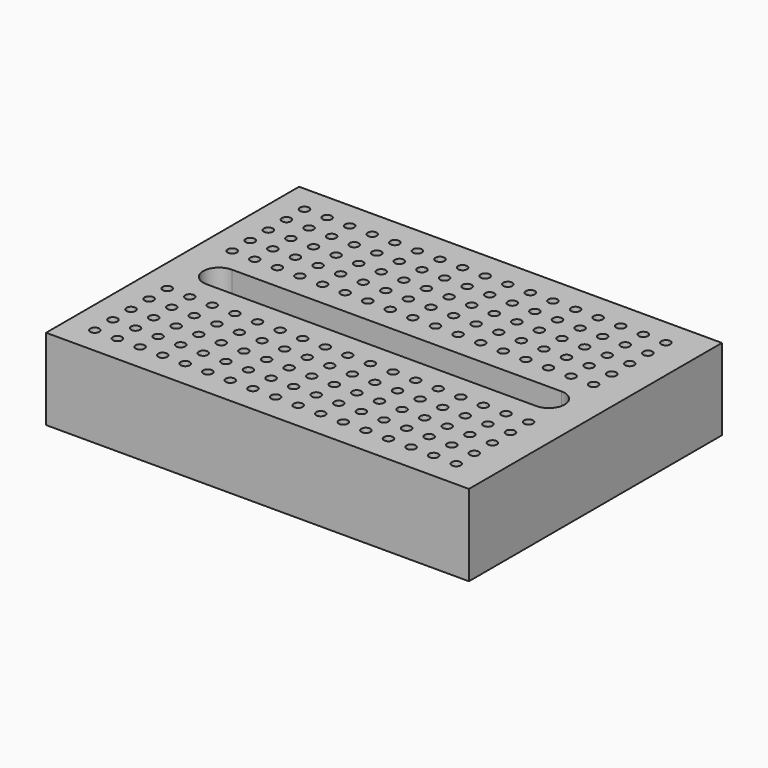
from build123d import *

# Parameters (mm, degrees)
F0_W     = 46.8
F0_H     = 35
F1_DEPTH = 9
F2_R     = 0.5
F3_DEPTH = 5


with BuildPart() as f1:
    # F0 (on Top) → F1 (new body)
    with BuildSketch(Plane.XY):
        Rectangle(F0_W, F0_H)
    extrude(amount=F1_DEPTH)

    # F2 (on face) → F3 (cut)
    with BuildSketch(Plane.XY.offset(9)):
        with BuildLine():
            ThreePointArc((18.25, -1.75), (16.5, 0), (18.25, 1.75))
            Line((18.25, 1.75), (-18.25, 1.75))
            ThreePointArc((-18.25, 1.75), (-17.0125631329, 1.2374368671), (-16.5, 0))
            ThreePointArc((-16.5, 0), (-17.0125631329, -1.2374368671), (-18.25, -1.75))
            Line((-18.25, -1.75), (18.25, -1.75))
        make_face()
        with BuildLine():
            ThreePointArc((20, 0), (19.4874368671, 1.2374368671), (18.25, 1.75))
            Line((18.25, 1.75), (18.25, -1.75))
            ThreePointArc((18.25, -1.75), (19.4874368671, -1.2374368671), (20, 0))
        make_face()
        with BuildLine():
            Line((18.25, -1.75), (18.25, 1.75))
            ThreePointArc((18.25, 1.75), (16.5, 0), (18.25, -1.75))
        make_face()
        with BuildLine():
            ThreePointArc((-16.5, 0), (-17.0125631329, 1.2374368671), (-18.25, 1.75))
            Line((-18.25, 1.75), (-18.25, -1.75))
            ThreePointArc((-18.25, -1.75), (-17.0125631329, -1.2374368671), (-16.5, 0))
        make_face()
        with BuildLine():
            Line((-18.25, -1.75), (-18.25, 1.75))
            ThreePointArc((-18.25, 1.75), (-20, 0), (-18.25, -1.75))
        make_face()
        with Locations((-20.4, 14.5)):
            Circle(F2_R)
        with Locations((-20.4, -14.5)):
            Circle(F2_R)
        with Locations((-20.4, -12)):
            Circle(F2_R)
        with Locations((-20.4, -9.5)):
            Circle(F2_R)
        with Locations((-20.4, -7)):
            Circle(F2_R)
        with Locations((-20.4, -4.5)):
            Circle(F2_R)
        with Locations((-17.9, -14.5)):
            Circle(F2_R)
        with Locations((-17.9, -12)):
            Circle(F2_R)
        with Locations((-17.9, -9.5)):
            Circle(F2_R)
        with Locations((-17.9, -7)):
            Circle(F2_R)
        with Locations((-17.9, -4.5)):
            Circle(F2_R)
        with Locations((-15.4, -14.5)):
            Circle(F2_R)
        with Locations((-15.4, -12)):
            Circle(F2_R)
        with Locations((-15.4, -9.5)):
            Circle(F2_R)
        with Locations((-15.4, -7)):
            Circle(F2_R)
        with Locations((-15.4, -4.5)):
            Circle(F2_R)
        with Locations((-12.9, -14.5)):
            Circle(F2_R)
        with Locations((-12.9, -12)):
            Circle(F2_R)
        with Locations((-12.9, -9.5)):
            Circle(F2_R)
        with Locations((-12.9, -7)):
            Circle(F2_R)
        with Locations((-12.9, -4.5)):
            Circle(F2_R)
        with Locations((-10.4, -14.5)):
            Circle(F2_R)
        with Locations((-10.4, -12)):
            Circle(F2_R)
        with Locations((-10.4, -9.5)):
            Circle(F2_R)
        with Locations((-10.4, -7)):
            Circle(F2_R)
        with Locations((-10.4, -4.5)):
            Circle(F2_R)
        with Locations((-7.9, -14.5)):
            Circle(F2_R)
        with Locations((-7.9, -12)):
            Circle(F2_R)
        with Locations((-7.9, -9.5)):
            Circle(F2_R)
        with Locations((-7.9, -7)):
            Circle(F2_R)
        with Locations((-7.9, -4.5)):
            Circle(F2_R)
        with Locations((-5.4, -14.5)):
            Circle(F2_R)
        with Locations((-5.4, -12)):
            Circle(F2_R)
        with Locations((-5.4, -9.5)):
            Circle(F2_R)
        with Locations((-5.4, -7)):
            Circle(F2_R)
        with Locations((-5.4, -4.5)):
            Circle(F2_R)
        with Locations((-2.9, -14.5)):
            Circle(F2_R)
        with Locations((-2.9, -12)):
            Circle(F2_R)
        with Locations((-2.9, -9.5)):
            Circle(F2_R)
        with Locations((-2.9, -7)):
            Circle(F2_R)
        with Locations((-2.9, -4.5)):
            Circle(F2_R)
        with Locations((-0.4, -14.5)):
            Circle(F2_R)
        with Locations((-0.4, -12)):
            Circle(F2_R)
        with Locations((-0.4, -9.5)):
            Circle(F2_R)
        with Locations((-0.4, -7)):
            Circle(F2_R)
        with Locations((-0.4, -4.5)):
            Circle(F2_R)
        with Locations((2.1, -14.5)):
            Circle(F2_R)
        with Locations((2.1, -12)):
            Circle(F2_R)
        with Locations((2.1, -9.5)):
            Circle(F2_R)
        with Locations((2.1, -7)):
            Circle(F2_R)
        with Locations((2.1, -4.5)):
            Circle(F2_R)
        with Locations((4.6, -14.5)):
            Circle(F2_R)
        with Locations((4.6, -12)):
            Circle(F2_R)
        with Locations((4.6, -9.5)):
            Circle(F2_R)
        with Locations((4.6, -7)):
            Circle(F2_R)
        with Locations((4.6, -4.5)):
            Circle(F2_R)
        with Locations((7.1, -14.5)):
            Circle(F2_R)
        with Locations((7.1, -12)):
            Circle(F2_R)
        with Locations((7.1, -9.5)):
            Circle(F2_R)
        with Locations((7.1, -7)):
            Circle(F2_R)
        with Locations((7.1, -4.5)):
            Circle(F2_R)
        with Locations((9.6, -14.5)):
            Circle(F2_R)
        with Locations((9.6, -12)):
            Circle(F2_R)
        with Locations((9.6, -9.5)):
            Circle(F2_R)
        with Locations((9.6, -7)):
            Circle(F2_R)
        with Locations((9.6, -4.5)):
            Circle(F2_R)
        with Locations((12.1, -14.5)):
            Circle(F2_R)
        with Locations((12.1, -12)):
            Circle(F2_R)
        with Locations((12.1, -9.5)):
            Circle(F2_R)
        with Locations((12.1, -7)):
            Circle(F2_R)
        with Locations((12.1, -4.5)):
            Circle(F2_R)
        with Locations((14.6, -14.5)):
            Circle(F2_R)
        with Locations((14.6, -12)):
            Circle(F2_R)
        with Locations((14.6, -9.5)):
            Circle(F2_R)
        with Locations((14.6, -7)):
            Circle(F2_R)
        with Locations((14.6, -4.5)):
            Circle(F2_R)
        with Locations((17.1, -14.5)):
            Circle(F2_R)
        with Locations((17.1, -12)):
            Circle(F2_R)
        with Locations((17.1, -9.5)):
            Circle(F2_R)
        with Locations((17.1, -7)):
            Circle(F2_R)
        with Locations((17.1, -4.5)):
            Circle(F2_R)
        with Locations((19.6, -14.5)):
            Circle(F2_R)
        with Locations((19.6, -12)):
            Circle(F2_R)
        with Locations((19.6, -9.5)):
            Circle(F2_R)
        with Locations((19.6, -7)):
            Circle(F2_R)
        with Locations((19.6, -4.5)):
            Circle(F2_R)
        with Locations((-20.4, 12)):
            Circle(F2_R)
        with Locations((-20.4, 9.5)):
            Circle(F2_R)
        with Locations((-20.4, 7)):
            Circle(F2_R)
        with Locations((-20.4, 4.5)):
            Circle(F2_R)
        with Locations((-17.9, 14.5)):
            Circle(F2_R)
        with Locations((-17.9, 12)):
            Circle(F2_R)
        with Locations((-17.9, 9.5)):
            Circle(F2_R)
        with Locations((-17.9, 7)):
            Circle(F2_R)
        with Locations((-17.9, 4.5)):
            Circle(F2_R)
        with Locations((-15.4, 14.5)):
            Circle(F2_R)
        with Locations((-15.4, 12)):
            Circle(F2_R)
        with Locations((-15.4, 9.5)):
            Circle(F2_R)
        with Locations((-15.4, 7)):
            Circle(F2_R)
        with Locations((-15.4, 4.5)):
            Circle(F2_R)
        with Locations((-12.9, 14.5)):
            Circle(F2_R)
        with Locations((-12.9, 12)):
            Circle(F2_R)
        with Locations((-12.9, 9.5)):
            Circle(F2_R)
        with Locations((-12.9, 7)):
            Circle(F2_R)
        with Locations((-12.9, 4.5)):
            Circle(F2_R)
        with Locations((-10.4, 14.5)):
            Circle(F2_R)
        with Locations((-10.4, 12)):
            Circle(F2_R)
        with Locations((-10.4, 9.5)):
            Circle(F2_R)
        with Locations((-10.4, 7)):
            Circle(F2_R)
        with Locations((-10.4, 4.5)):
            Circle(F2_R)
        with Locations((-7.9, 14.5)):
            Circle(F2_R)
        with Locations((-7.9, 12)):
            Circle(F2_R)
        with Locations((-7.9, 9.5)):
            Circle(F2_R)
        with Locations((-7.9, 7)):
            Circle(F2_R)
        with Locations((-7.9, 4.5)):
            Circle(F2_R)
        with Locations((-5.4, 14.5)):
            Circle(F2_R)
        with Locations((-5.4, 12)):
            Circle(F2_R)
        with Locations((-5.4, 9.5)):
            Circle(F2_R)
        with Locations((-5.4, 7)):
            Circle(F2_R)
        with Locations((-5.4, 4.5)):
            Circle(F2_R)
        with Locations((-2.9, 14.5)):
            Circle(F2_R)
        with Locations((-2.9, 12)):
            Circle(F2_R)
        with Locations((-2.9, 9.5)):
            Circle(F2_R)
        with Locations((-2.9, 7)):
            Circle(F2_R)
        with Locations((-2.9, 4.5)):
            Circle(F2_R)
        with Locations((-0.4, 14.5)):
            Circle(F2_R)
        with Locations((-0.4, 12)):
            Circle(F2_R)
        with Locations((-0.4, 9.5)):
            Circle(F2_R)
        with Locations((-0.4, 7)):
            Circle(F2_R)
        with Locations((-0.4, 4.5)):
            Circle(F2_R)
        with Locations((2.1, 14.5)):
            Circle(F2_R)
        with Locations((2.1, 12)):
            Circle(F2_R)
        with Locations((2.1, 9.5)):
            Circle(F2_R)
        with Locations((2.1, 7)):
            Circle(F2_R)
        with Locations((2.1, 4.5)):
            Circle(F2_R)
        with Locations((4.6, 14.5)):
            Circle(F2_R)
        with Locations((4.6, 12)):
            Circle(F2_R)
        with Locations((4.6, 9.5)):
            Circle(F2_R)
        with Locations((4.6, 7)):
            Circle(F2_R)
        with Locations((4.6, 4.5)):
            Circle(F2_R)
        with Locations((7.1, 14.5)):
            Circle(F2_R)
        with Locations((7.1, 12)):
            Circle(F2_R)
        with Locations((7.1, 9.5)):
            Circle(F2_R)
        with Locations((7.1, 7)):
            Circle(F2_R)
        with Locations((7.1, 4.5)):
            Circle(F2_R)
        with Locations((9.6, 14.5)):
            Circle(F2_R)
        with Locations((9.6, 12)):
            Circle(F2_R)
        with Locations((9.6, 9.5)):
            Circle(F2_R)
        with Locations((9.6, 7)):
            Circle(F2_R)
        with Locations((9.6, 4.5)):
            Circle(F2_R)
        with Locations((12.1, 14.5)):
            Circle(F2_R)
        with Locations((12.1, 12)):
            Circle(F2_R)
        with Locations((12.1, 9.5)):
            Circle(F2_R)
        with Locations((12.1, 7)):
            Circle(F2_R)
        with Locations((12.1, 4.5)):
            Circle(F2_R)
        with Locations((14.6, 14.5)):
            Circle(F2_R)
        with Locations((14.6, 12)):
            Circle(F2_R)
        with Locations((14.6, 9.5)):
            Circle(F2_R)
        with Locations((14.6, 7)):
            Circle(F2_R)
        with Locations((14.6, 4.5)):
            Circle(F2_R)
        with Locations((17.1, 14.5)):
            Circle(F2_R)
        with Locations((17.1, 12)):
            Circle(F2_R)
        with Locations((17.1, 9.5)):
            Circle(F2_R)
        with Locations((17.1, 7)):
            Circle(F2_R)
        with Locations((17.1, 4.5)):
            Circle(F2_R)
        with Locations((19.6, 14.5)):
            Circle(F2_R)
        with Locations((19.6, 12)):
            Circle(F2_R)
        with Locations((19.6, 9.5)):
            Circle(F2_R)
        with Locations((19.6, 7)):
            Circle(F2_R)
        with Locations((19.6, 4.5)):
            Circle(F2_R)
    extrude(amount=-F3_DEPTH, mode=Mode.SUBTRACT)


solid = f1.part
